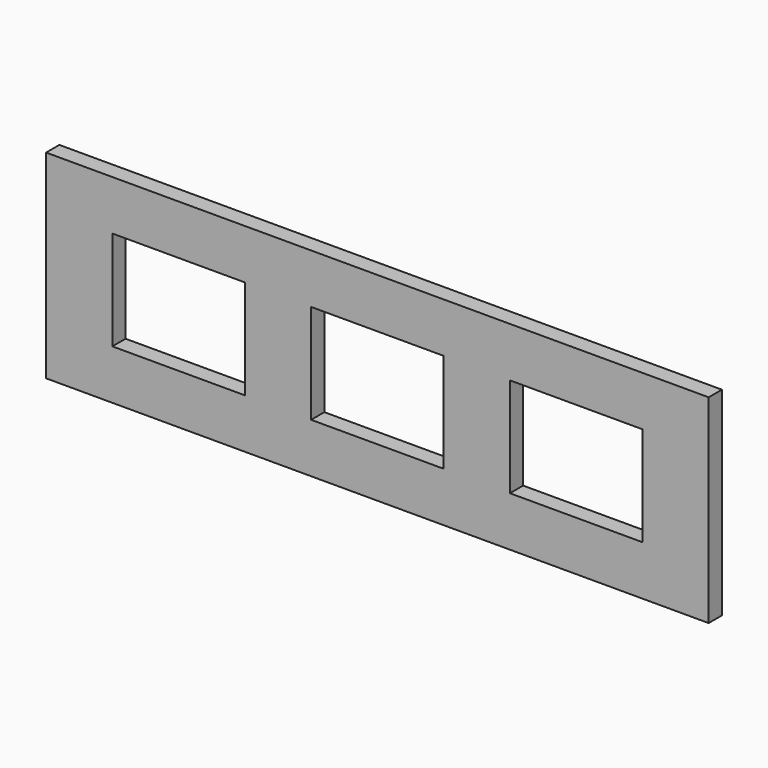
from build123d import *

# Parameters (mm, degrees)
SKETCH_W      = 2000
SKETCH_H      = 1500
EXTRUDE_DEPTH = 350
BOX_W         = 10000
BOX_H         = 250
BOX_DEPTH     = 3000


with BuildPart() as extrude_body:
    # Sketch (on Face3 of Box) → Extrude (new body)
    with BuildSketch(Plane.XZ):
        with Locations((2000, 1500)):
            Rectangle(SKETCH_W, SKETCH_H)
        with Locations((5000, 1500)):
            Rectangle(SKETCH_W, SKETCH_H)
        with Locations((8000, 1500)):
            Rectangle(SKETCH_W, SKETCH_H)
    extrude(amount=-EXTRUDE_DEPTH)


with BuildPart() as cut:
    # Box → Box (new body)
    with BuildSketch(Plane.XY):
        with Locations((5000, 125)):
            Rectangle(BOX_W, BOX_H)
    extrude(amount=BOX_DEPTH)

    # Cut: cut Extrude body
    add(extrude_body.part, mode=Mode.SUBTRACT)


solid = cut.part
